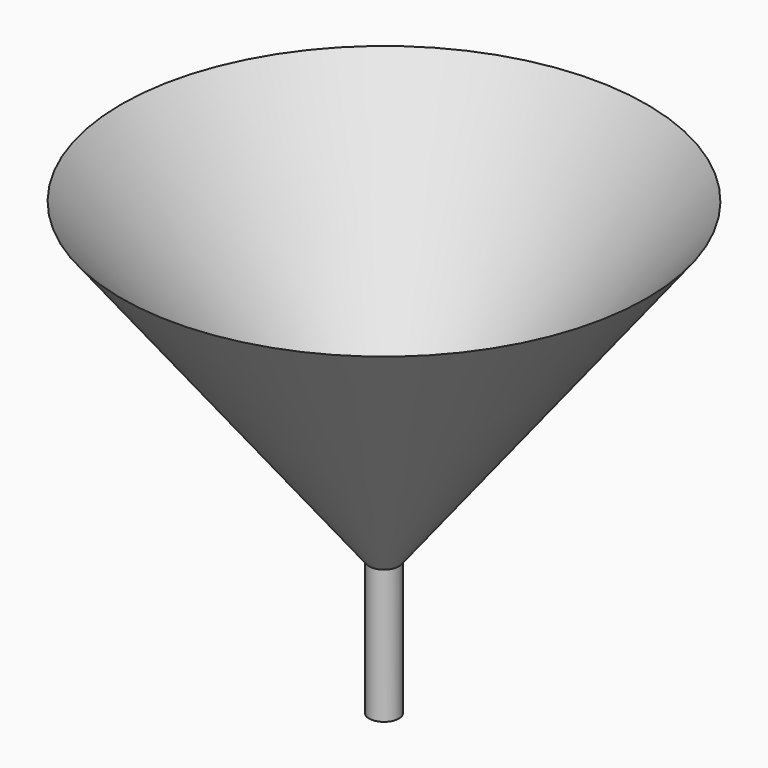
from build123d import *

# Parameters (mm, degrees)
F2_R     = 2.135992
F3_DEPTH = 65.786


with BuildPart() as f1:
    # F0 (on Front) → F1 (revolve)
    with BuildSketch(Plane.XZ):
        Polygon((-2.819958, -51.437087), (0, -51.642817), (0, -26.242817), (46.975856, 33.754758), (-2.819958, -26.242817), align=None)
    revolve(axis=Axis((-2.819958, 0, -38.839952), (0, 0, -1)))

    # F2 (on Top) → F3 (cut)
    with BuildSketch(Plane.XY):
        with Locations((-2.827365, 0)):
            Circle(F2_R)
    extrude(amount=-F3_DEPTH, mode=Mode.SUBTRACT)


solid = f1.part
